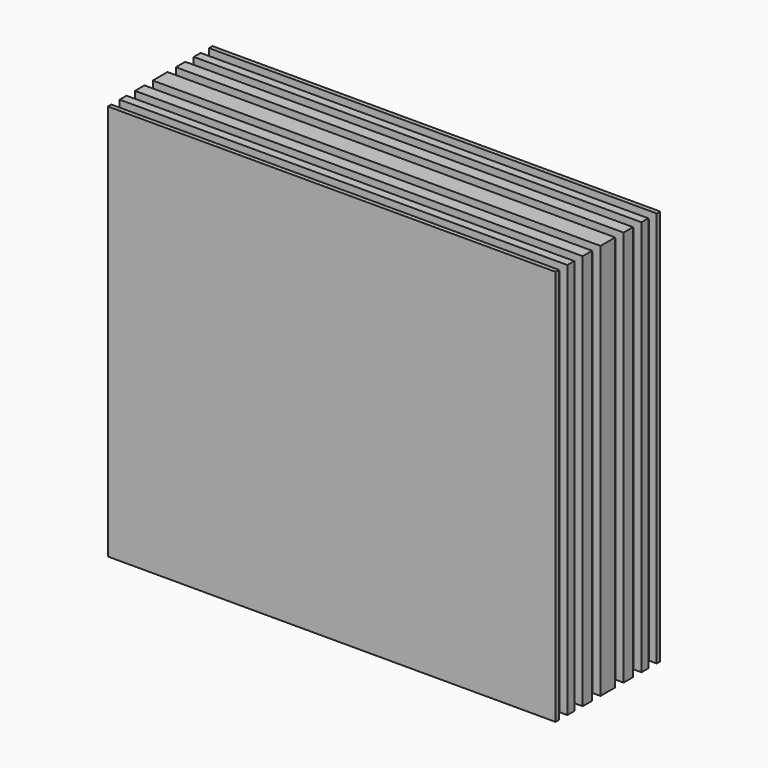
from build123d import *

# Parameters (mm, degrees)
F0_W     = 113
F0_H     = 100
F1_DEPTH = 16.5
F2_W     = 113
F2_H     = 2.648482
F3_DEPTH = 2
F4_W     = 2.648482
F4_H     = 98
F5_DEPTH = 2
F6_W     = 2.648482
F6_H     = 98
F7_DEPTH = 2


with BuildPart() as f1:
    # F0 (on Front) → F1 (new body, symmetric)
    with BuildSketch(Plane.XZ):
        Rectangle(F0_W, F0_H)
    extrude(amount=F1_DEPTH, both=True)

    # F2 (on face) → F3 (cut)
    with BuildSketch(Plane.XY.offset(50)):
        with Locations((0, -14.097255)):
            Rectangle(F2_W, F2_H)
        with Locations((0, 14.097255)):
            Rectangle(F2_W, F2_H)
        with Locations((0, -9.271692)):
            Rectangle(F2_W, F2_H)
        with Locations((0, -3.639926)):
            Rectangle(F2_W, F2_H)
        with Locations((0, 3.639926)):
            Rectangle(F2_W, F2_H)
        with Locations((0, 9.271692)):
            Rectangle(F2_W, F2_H)
    extrude(amount=-F3_DEPTH, mode=Mode.SUBTRACT)

    # F4 (on face) → F5 (cut)
    with BuildSketch(Plane.YZ.offset(56.5)):
        with Locations((14.097255, -1)):
            Rectangle(F4_W, F4_H)
        with Locations((9.271692, -1)):
            Rectangle(F4_W, F4_H)
        with Locations((3.639926, -1)):
            Rectangle(F4_W, F4_H)
        with Locations((-3.639926, -1)):
            Rectangle(F4_W, F4_H)
        with Locations((-9.271692, -1)):
            Rectangle(F4_W, F4_H)
        with Locations((-14.097255, -1)):
            Rectangle(F4_W, F4_H)
    extrude(amount=-F5_DEPTH, mode=Mode.SUBTRACT)

    # F6 (on face) → F7 (cut)
    with BuildSketch(Plane(origin=(-56.5, 0, 0), x_dir=(0, -1, 0), z_dir=(-1, 0, 0))):
        with Locations((-14.097255, -1)):
            Rectangle(F6_W, F6_H)
        with Locations((-9.271692, -1)):
            Rectangle(F6_W, F6_H)
        with Locations((-3.639926, -1)):
            Rectangle(F6_W, F6_H)
        with Locations((3.639926, -1)):
            Rectangle(F6_W, F6_H)
        with Locations((9.271692, -1)):
            Rectangle(F6_W, F6_H)
        with Locations((14.097255, -1)):
            Rectangle(F6_W, F6_H)
    extrude(amount=-F7_DEPTH, mode=Mode.SUBTRACT)


solid = f1.part
